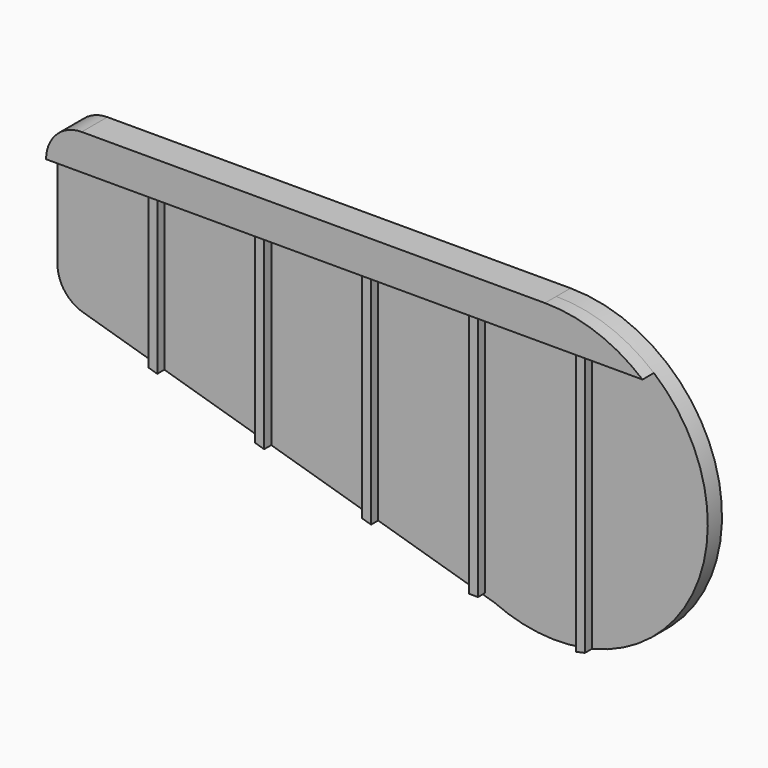
from build123d import *

# Parameters (mm, degrees)
F1_DEPTH = 12.7
F3_DEPTH = 10.16
F4_W     = 6.35
F4_H     = 177.1998706725
F5_DEPTH = 6.35


with BuildPart() as f1:
    # F0 (on Front) → F1 (new body)
    with BuildSketch(Plane.XZ):
        with BuildLine():
            Line((0, 88.9), (0, 18.9734820172))
            ThreePointArc((0, 18.9734820172), (5.0506124764, 3.7727442912), (18.1938919224, -5.3828725206))
            Line((18.1938919224, -5.3828725206), (311.3668292683, -92.1214634146))
            ThreePointArc((311.3668292683, -92.1214634146), (461.1537705997, -16.2686651285), (355.6, 114.3))
            Line((355.6, 114.3), (25.4, 114.3))
            ThreePointArc((25.4, 114.3), (7.4394877579, 106.8605122421), (0, 88.9))
        make_face()
    extrude(amount=F1_DEPTH)

    # F2 (on face) → F3 (join)
    with BuildSketch(Plane.XZ.offset(12.7)):
        with BuildLine():
            ThreePointArc((25.4, 114.3), (7.4394877579, 106.8605122421), (0, 88.9))
            Line((0, 88.9), (425.1607648032, 88.9))
            ThreePointArc((425.1607648032, 88.9), (392.6265445323, 107.751368334), (355.6, 114.3))
            Line((355.6, 114.3), (25.4, 114.3))
        make_face()
    extrude(amount=F3_DEPTH)

    # F4 (on face) → F5 (join)
    with BuildSketch(Plane.XZ.offset(12.7)):
        Polygon((76.2, 88.9), (69.85, 88.9), (69.85, -20.6659271787), (76.2, -22.5446478313), align=None)
        Polygon((152.4, 88.9), (146.05, 88.9), (146.05, -43.2105750099), (152.4, -45.0892956626), align=None)
        Polygon((228.6, 88.9), (222.25, 88.9), (222.25, -65.7552228412), (228.6, -67.6339434938), align=None)
        with Locations((301.625, 0.3000646637)):
            Rectangle(F4_W, F4_H)
        Polygon((381, 88.9), (374.65, 88.9), (374.65, -99.9058233698), (381, -98.5692189258), align=None)
    extrude(amount=F5_DEPTH)


solid = f1.part
